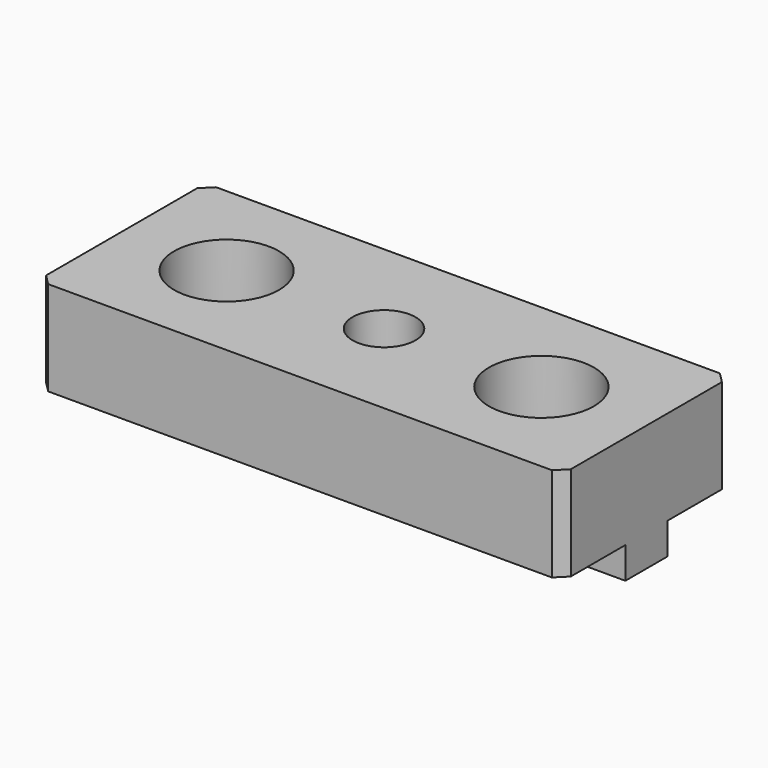
from build123d import *

# Parameters (mm, degrees)
F1_DEPTH       = 25
F3_D           = 5.2
F3_CBORE_D     = 10
F3_CBORE_DEPTH = 5.2
F4_D           = 6
F5_SIZE        = 1


with BuildPart() as f1:
    # F0 (on Right) → F1 (new body, symmetric)
    with BuildSketch(Plane.YZ):
        Polygon((10, 4.5), (-10, 4.5), (-10, -4.5), (-2.5, -4.5), (-2.5, -7.5), (2.5, -7.5), (2.5, -4.5), (10, -4.5), align=None)
    extrude(amount=F1_DEPTH, both=True)

    # F3 (through all)
    with Locations(Plane.XY.offset(4.5)):
        with Locations((-15, 0), (15, 0)):
            CounterBoreHole(F3_D / 2, F3_CBORE_D / 2, F3_CBORE_DEPTH)

    # F4 (through all)
    with Locations(Plane.XY.offset(4.5)):
        with Locations((0, 0)):
            Hole(F4_D / 2)

    # F5
    f5_edges = [f1.edges().sort_by_distance(p)[0] for p in [
        (25, -10, 0),
        (25, 10, 0),
        (-25, -10, 0),
        (-25, 10, 0),
    ]]
    chamfer(f5_edges, length=F5_SIZE)


solid = f1.part
